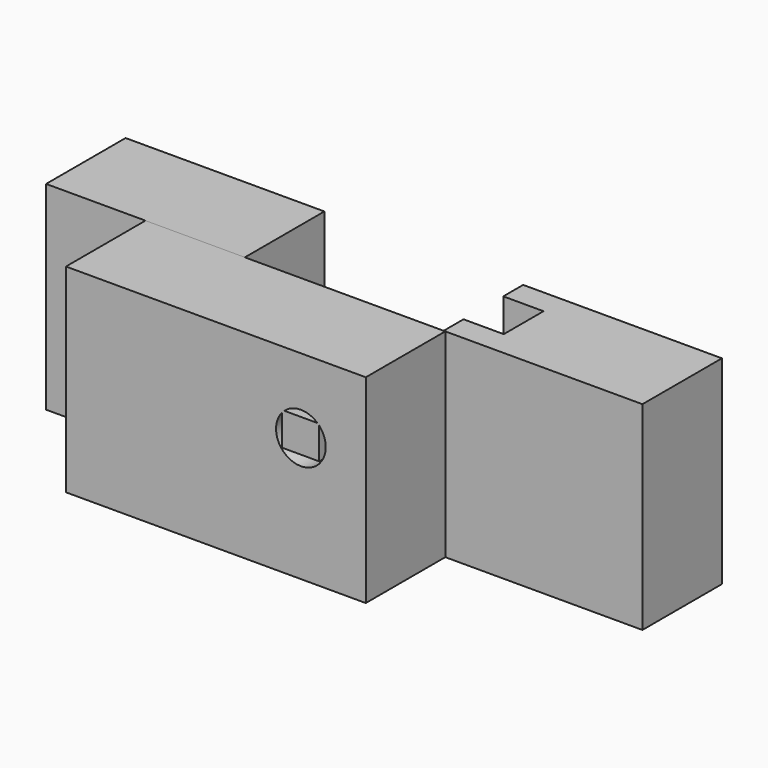
from build123d import *

# Parameters (mm, degrees)
F0_W          = 50.8
F0_H          = 50.8
F1_DEPTH      = 25.4
F2_W          = 76.6248404759
F2_H          = 50.8
F3_DEPTH      = 25.4
F4_R          = 6.35
F5_DEPTH      = 25.4
F7_DEPTH      = 10.287
F8_W          = 9.525
F8_H          = 8.4898080677
F9_DEPTH      = 25.4
F9_DEPTH_BACK = 19.05
F10_W         = 10.16
F10_H         = 8.4898080677
F11_DEPTH     = 19.05


with BuildPart() as f1:
    # F0 (on Front) → F1 (new body)
    with BuildSketch(Plane.XZ):
        with Locations((57.1738270503, 25.4)):
            Rectangle(F0_W, F0_H)
    extrude(amount=F1_DEPTH)

    # F6 (on face) → F7 (cut)
    with BuildSketch(Plane(origin=(31.7738270503, 0, 0), x_dir=(0, -1, 0), z_dir=(-1, 0, 0))):
        Polygon((6.35, 50.8), (6.35, 25.4), (19.05, 25.4), (19.05, 42.4634665251), (19.05, 50.8), align=None)
    extrude(amount=-F7_DEPTH, mode=Mode.SUBTRACT)


with BuildPart() as f1b:
    # F0 (on Front) → F1, piece 2 (new body)
    with BuildSketch(Plane.XZ):
        with Locations((-44.4261729497, 25.4)):
            Rectangle(F0_W, F0_H)
    extrude(amount=F1_DEPTH)


with BuildPart() as f3:
    # F2 (on face) → F3 (new body)
    with BuildSketch(Plane.XZ.offset(25.4)):
        with Locations((-6.1137527117, 25.4)):
            Rectangle(F2_W, F2_H)
    extrude(amount=F3_DEPTH)

    # F4 (on face) → F5 (cut)
    with BuildSketch(Plane(origin=(0, -25.4, 0), x_dir=(-1, 0, 0), z_dir=(0, 1, 0))):
        with Locations((-15.61657805, 31.75)):
            Circle(F4_R)
    extrude(amount=-F5_DEPTH, mode=Mode.SUBTRACT)

    # F8 (on face) → F9 (join, two sides)
    with BuildSketch(Plane(origin=(0, -25.4, 0), x_dir=(-1, 0, 0), z_dir=(0, 1, 0))) as f9_sk:
        with Locations((-15.5326598912, 32.2467396036)):
            Rectangle(F8_W, F8_H)
    extrude(amount=-F9_DEPTH)
    extrude(f9_sk.sketch, amount=F9_DEPTH_BACK)

    # F10 (on face) → F11 (join)
    with BuildSketch(Plane.YZ.offset(20.2951598912)):
        with Locations((-11.43, 32.2467396036)):
            Rectangle(F10_W, F10_H)
    extrude(amount=F11_DEPTH)


solid = Compound([f1.part, f1b.part, f3.part])
